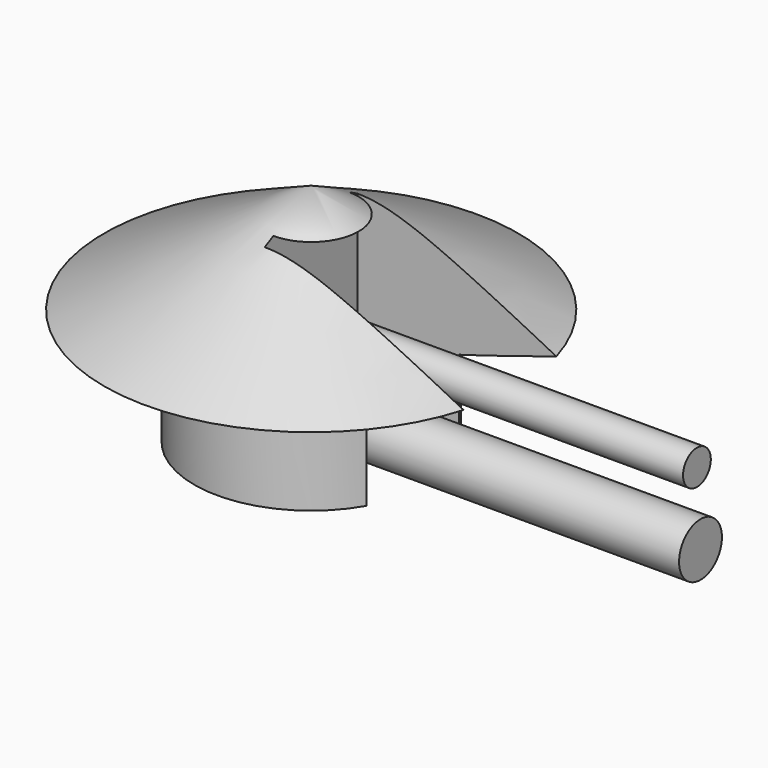
from build123d import *

# Parameters (mm, degrees)
F3_DEPTH = 100
F4_R     = 8.65938
F4_R_2   = 13.370559
F5_DEPTH = 200


with BuildPart() as f1:
    # F0 (on Front) → F1 (revolve)
    with BuildSketch(Plane.XZ):
        Polygon((0, 112.481035), (0, 0), (58.373801, 0), (58.373801, 42.910885), (103.36262, 57.920542), align=None)
    revolve(axis=Axis((0, 0, 56.240518), (0, 0, -1)))

    # F2 (on face) → F3 (cut)
    with BuildSketch(Plane(origin=(0, 0, 0), x_dir=(1, 0, 0), z_dir=(0, 0, -1))):
        with BuildLine():
            Line((0, 28.951159), (0, -28.951159))
            Line((0, -28.951159), (50.68857, -28.951159))
            ThreePointArc((50.68857, -28.951159), (56.419789, -14.976919), (58.373801, 0))
            ThreePointArc((58.373801, 0), (56.419789, 14.976919), (50.68857, 28.951159))
            Line((50.68857, 28.951159), (0, 28.951159))
        make_face()
        with BuildLine():
            ThreePointArc((58.373801, 0), (56.419789, -14.976919), (50.68857, -28.951159))
            Line((50.68857, -28.951159), (267.143011, -28.951159))
            Line((267.143011, -28.951159), (267.143011, 28.951159))
            Line((267.143011, 28.951159), (50.68857, 28.951159))
            ThreePointArc((50.68857, 28.951159), (56.419789, 14.976919), (58.373801, 0))
        make_face()
    extrude(amount=-F3_DEPTH, mode=Mode.SUBTRACT)

    # F4 (on face) → F5 (join)
    with BuildSketch(Plane.YZ):
        with Locations((-9.289023, 57.48608)):
            Circle(F4_R)
        with Locations((-7.069625, 20.480426)):
            Circle(F4_R_2)
    extrude(amount=F5_DEPTH)


solid = f1.part
